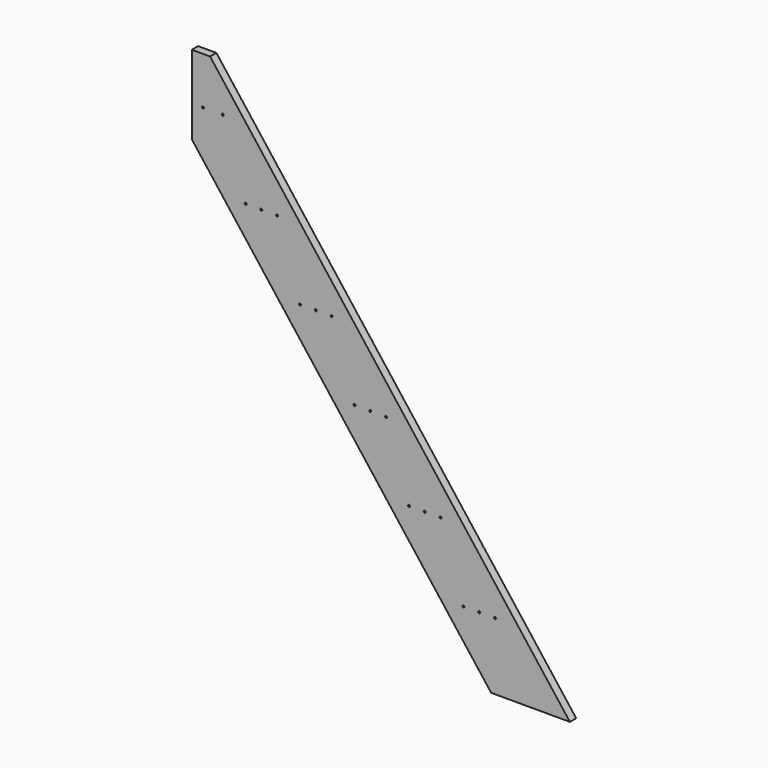
from build123d import *

# Parameters (mm, degrees)
F0_R     = 3.175
F1_DEPTH = 25.4


with BuildPart() as f1:
    # F0 (on Front) → F1 (new body)
    with BuildSketch(Plane.XZ):
        Polygon((1476.254213, -1410.792774), (1730.254213, -1410.792774), (570.064314, 100.507226), (511.054213, 100.507226), (511.054213, -153.492774), align=None)
        with Locations((1035.730981, -737.692774)):
            Circle(F0_R, mode=Mode.SUBTRACT)
        with Locations((1086.530981, -737.692774)):
            Circle(F0_R, mode=Mode.SUBTRACT)
        with Locations((1386.712799, -1194.892774)):
            Circle(F0_R, mode=Mode.SUBTRACT)
        with Locations((1437.512799, -1194.892774)):
            Circle(F0_R, mode=Mode.SUBTRACT)
        with Locations((1488.312799, -1194.892774)):
            Circle(F0_R, mode=Mode.SUBTRACT)
        with Locations((1211.22189, -966.292774)):
            Circle(F0_R, mode=Mode.SUBTRACT)
        with Locations((1262.02189, -966.292774)):
            Circle(F0_R, mode=Mode.SUBTRACT)
        with Locations((1312.82189, -966.292774)):
            Circle(F0_R, mode=Mode.SUBTRACT)
        with Locations((1137.330981, -737.692774)):
            Circle(F0_R, mode=Mode.SUBTRACT)
        with Locations((684.749162, -280.492774)):
            Circle(F0_R, mode=Mode.SUBTRACT)
        with Locations((735.549162, -280.492774)):
            Circle(F0_R, mode=Mode.SUBTRACT)
        with Locations((786.349162, -280.492774)):
            Circle(F0_R, mode=Mode.SUBTRACT)
        with Locations((860.240072, -509.092774)):
            Circle(F0_R, mode=Mode.SUBTRACT)
        with Locations((911.040072, -509.092774)):
            Circle(F0_R, mode=Mode.SUBTRACT)
        with Locations((961.840072, -509.092774)):
            Circle(F0_R, mode=Mode.SUBTRACT)
        with Locations((547.358253, -51.892774)):
            Circle(F0_R, mode=Mode.SUBTRACT)
        with Locations((610.858253, -51.892774)):
            Circle(F0_R, mode=Mode.SUBTRACT)
    extrude(amount=F1_DEPTH)


solid = f1.part
